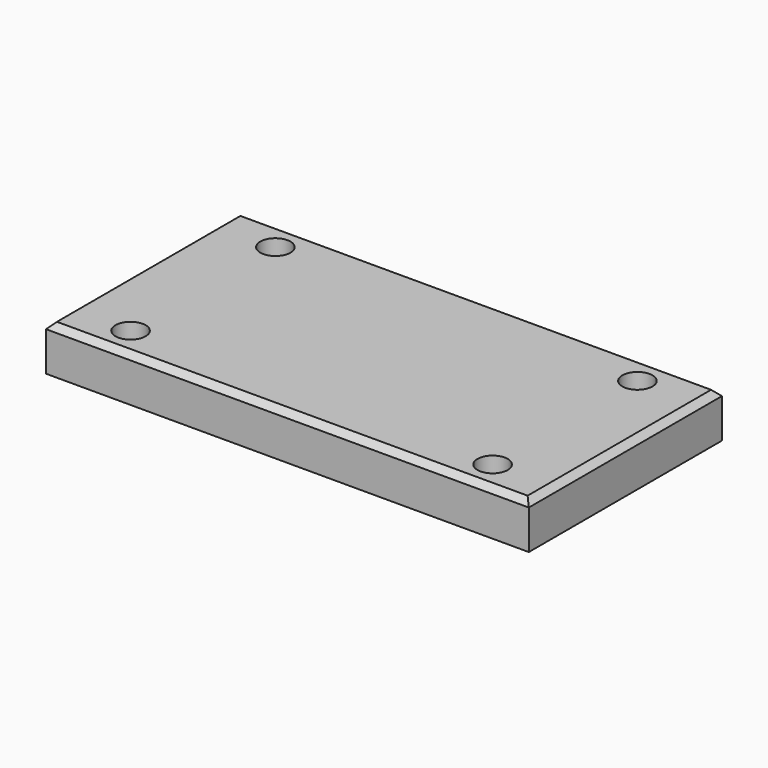
from build123d import *

# Parameters (mm, degrees)
F0_W     = 101.6
F0_H     = 50.8
F0_R     = 3.175
F1_DEPTH = 9.525
F2_SIZE2 = 1.27
F2_SIZE  = 1.27


with BuildPart() as f1:
    # F0 (on Top) → F1 (new body)
    with BuildSketch(Plane.XY):
        Rectangle(F0_W, F0_H)
        with Locations((-38.1, -19.05)):
            Circle(F0_R, mode=Mode.SUBTRACT)
        with Locations((38.1, -19.05)):
            Circle(F0_R, mode=Mode.SUBTRACT)
        with Locations((-38.1, 19.05)):
            Circle(F0_R, mode=Mode.SUBTRACT)
        with Locations((38.1, 19.05)):
            Circle(F0_R, mode=Mode.SUBTRACT)
    extrude(amount=-F1_DEPTH)

    # F2
    f2_edges = [f1.edges().sort_by_distance(p)[0] for p in [
        (-50.8, 0, 0),
        (0, -25.4, 0),
        (0, 25.4, 0),
        (50.8, 0, 0),
    ]]
    chamfer(f2_edges, length=F2_SIZE, length2=F2_SIZE2)


solid = f1.part
